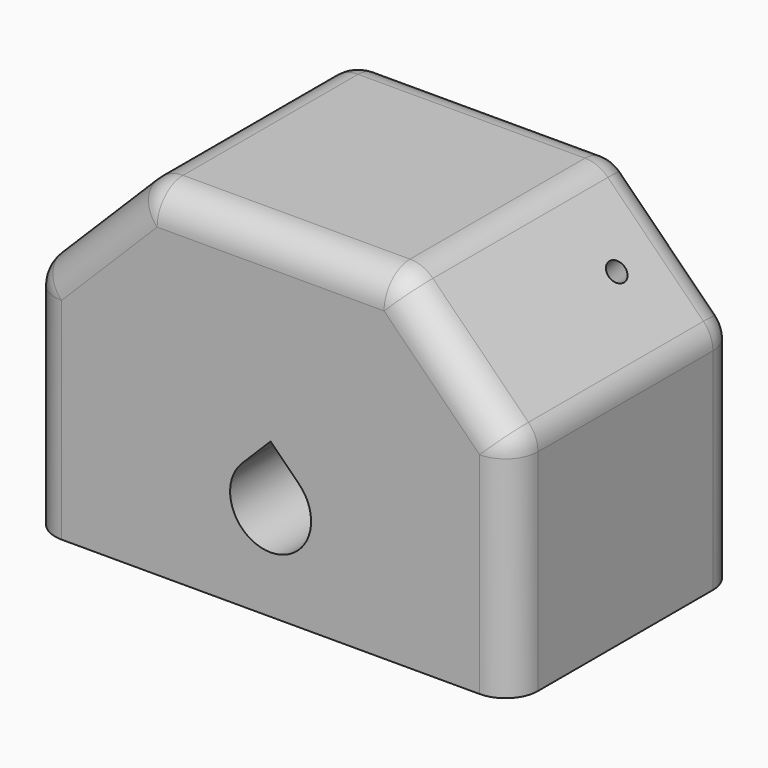
from build123d import *

# Parameters (mm, degrees)
F1_DEPTH      = 31.75
F1_DEPTH_BACK = 12.7
F2_R          = 3.175
F3_DEPTH      = 25.4
F4_R          = 1.5875
F5_DEPTH      = 25.4
F7_DEPTH      = 25.4
F8_R          = 5.08


with BuildPart() as f1:
    # F0 (on Front) → F1 (new body, two sides)
    with BuildSketch(Plane.XZ) as f1_sk:
        Polygon((-37.854384, 0), (0, 0), (37.854384, 0), (37.854384, 35.133872), (19.893872, 53.094384), (0, 53.094384), (-19.893872, 53.094384), (-37.854384, 35.133872), align=None)
    extrude(amount=F1_DEPTH)
    extrude(f1_sk.sketch, amount=-F1_DEPTH_BACK)

    # F2 (on face) → F3 (cut)
    with BuildSketch(Plane(origin=(-36.494128, 0, 36.494128), x_dir=(0, -1, 0), z_dir=(-0.707107, 0, 0.707107))):
        with Locations((0, 10.776307)):
            Circle(F2_R)
    extrude(amount=-F3_DEPTH, mode=Mode.SUBTRACT)

    # F4 (on face) → F5 (cut)
    with BuildSketch(Plane(origin=(36.494128, 0, 36.494128), x_dir=(0.707107, 0, -0.707107), z_dir=(0.707107, 0, 0.707107))):
        with Locations((-10.776307, 0)):
            Circle(F4_R)
    extrude(amount=-F5_DEPTH, mode=Mode.SUBTRACT)

    # F6 (on face) → F7 (cut)
    with BuildSketch(Plane.XZ.offset(31.75)):
        with BuildLine():
            Line((0, 24.220256), (-4.490128, 19.730128))
            ThreePointArc((-4.490128, 19.730128), (0, 8.89), (4.490128, 19.730128))
            Line((4.490128, 19.730128), (0, 24.220256))
        make_face()
    extrude(amount=-F7_DEPTH, mode=Mode.SUBTRACT)

    # F8
    f8_edges = [f1.edges().sort_by_distance(p)[0] for p in [
        (-37.854384, 12.7, 17.566936),
        (-28.874128, 12.7, 44.114128),
        (0, 12.7, 53.094384),
        (28.874128, 12.7, 44.114128),
        (37.854384, 12.7, 17.566936),
        (-19.893872, -9.525, 53.094384),
        (-37.854384, -9.525, 35.133872),
        (-28.874128, -31.75, 44.114128),
        (-37.854384, -31.75, 17.566936),
        (0, -31.75, 53.094384),
        (19.893872, -9.525, 53.094384),
        (28.874128, -31.75, 44.114128),
        (37.854384, -31.75, 17.566936),
        (37.854384, -9.525, 35.133872),
    ]]
    fillet(f8_edges, radius=F8_R)


solid = f1.part
